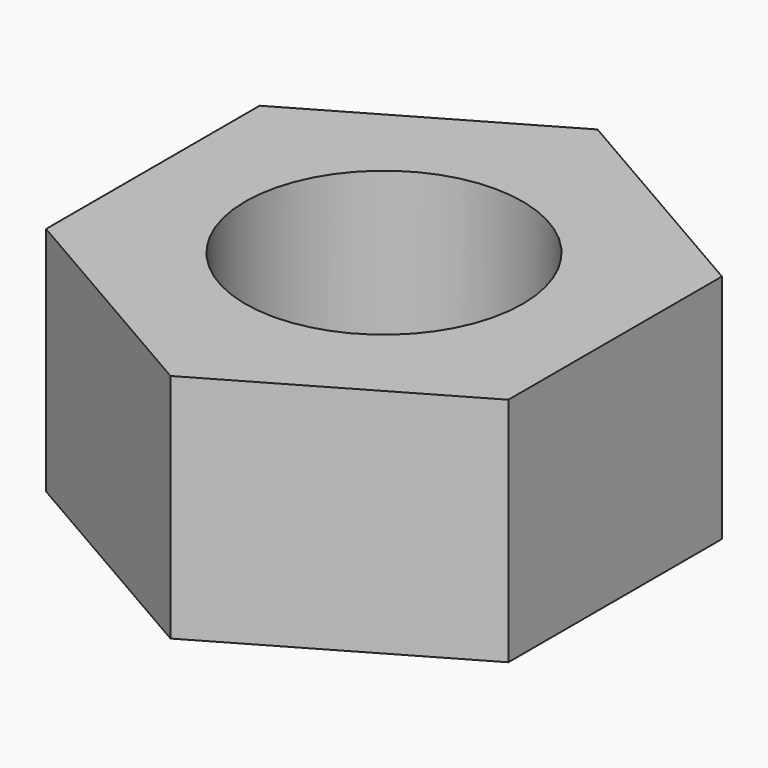
from build123d import *

# Parameters (mm, degrees)
SKETCH_R  = 3
PAD_DEPTH = 5


with BuildPart() as part:
    # Sketch → Pad (new body)
    with BuildSketch(Plane.XY):
        Polygon((0, 5.773503), (-5, 2.886751), (-5, -2.886751), (0, -5.773503), (5, -2.886751), (5, 2.886751), align=None)
        Circle(SKETCH_R, mode=Mode.SUBTRACT)
    extrude(amount=PAD_DEPTH)


solid = part.part
